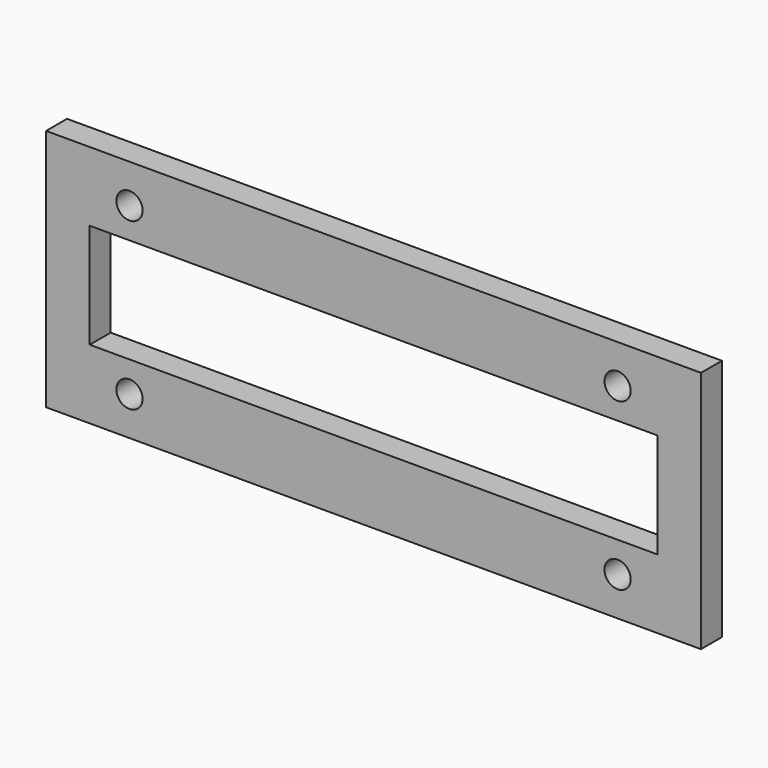
from build123d import *

# Parameters (mm, degrees)
F0_W     = 75
F0_H     = 27.866334
F0_R     = 1.5
F0_W_2   = 65
F0_H_2   = 12
F1_DEPTH = 3


with BuildPart() as f1:
    # F0 (on Front) → F1 (new body)
    with BuildSketch(Plane.XZ):
        Rectangle(F0_W, F0_H)
        with Locations((-27.95, -9.5)):
            Circle(F0_R, mode=Mode.SUBTRACT)
        with Locations((27.95, -9.5)):
            Circle(F0_R, mode=Mode.SUBTRACT)
        with Locations((-27.95, 9.5)):
            Circle(F0_R, mode=Mode.SUBTRACT)
        Rectangle(F0_W_2, F0_H_2, mode=Mode.SUBTRACT)
        with Locations((27.95, 9.5)):
            Circle(F0_R, mode=Mode.SUBTRACT)
    extrude(amount=F1_DEPTH)


solid = f1.part
